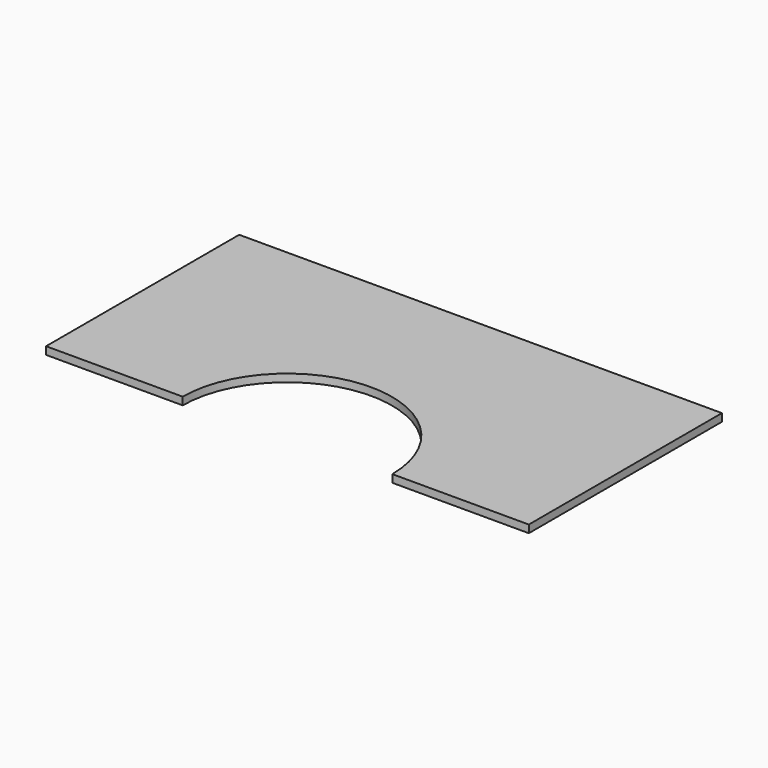
from build123d import *

# Parameters (mm, degrees)
F0_W     = 1600.2
F0_H     = 800.1
F1_DEPTH = 25.4
F3_DEPTH = 25.4


with BuildPart() as f1:
    # F0 (on Top) → F1 (new body)
    with BuildSketch(Plane.XY):
        Rectangle(F0_W, F0_H)
    extrude(amount=F1_DEPTH)

    # F2 (on Top) → F3 (cut, symmetric)
    with BuildSketch(Plane.XY):
        with BuildLine():
            Line((-347.394926, -401.079983), (347.394926, -401.079983))
            ThreePointArc((347.394926, -401.079983), (0, -53.685056), (-347.394926, -401.079983))
        make_face()
    extrude(amount=F3_DEPTH, both=True, mode=Mode.SUBTRACT)


solid = f1.part
